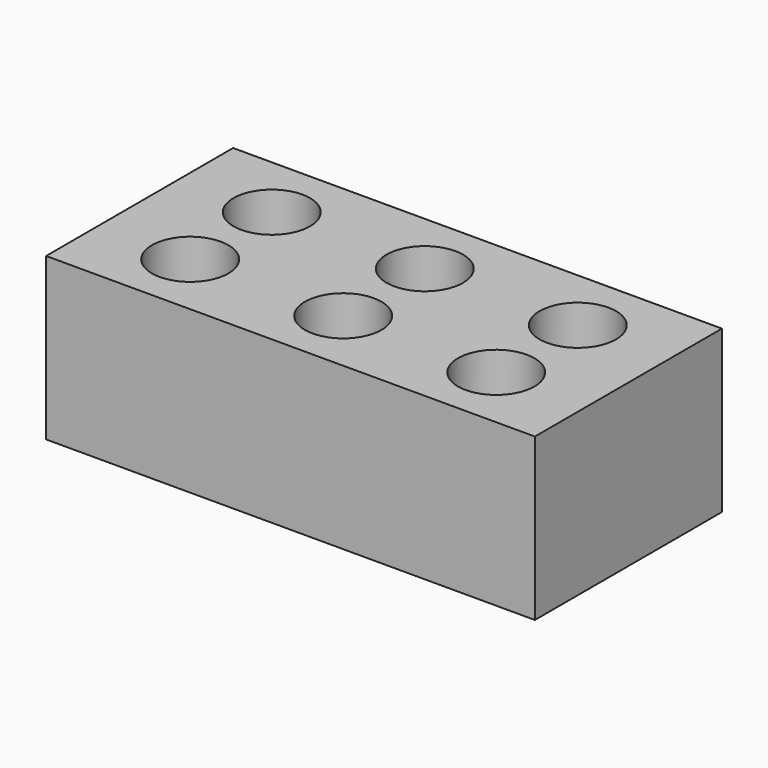
from build123d import *

# Parameters (mm, degrees)
CYLINDER001_R     = 18
CYLINDER001_DEPTH = 80
CYLINDER002_R     = 18
CYLINDER002_DEPTH = 80
CYLINDER003_R     = 18
CYLINDER003_DEPTH = 80
CYLINDER004_R     = 18
CYLINDER004_DEPTH = 80
CYLINDER005_R     = 18
CYLINDER005_DEPTH = 80
CYLINDER_R        = 18
CYLINDER_DEPTH    = 80
BOX_W             = 230
BOX_H             = 110
BOX_DEPTH         = 76


with BuildPart() as forat001:
    # Cylinder001 → Cylinder001 (new body)
    with BuildSketch(Plane(origin=(43, 79, -2), x_dir=(1, 0, 0), z_dir=(0, 0, 1))):
        Circle(CYLINDER001_R)
    extrude(amount=CYLINDER001_DEPTH)


with BuildPart() as forat002:
    # Cylinder002 → Cylinder002 (new body)
    with BuildSketch(Plane(origin=(115, 31, -2), x_dir=(1, 0, 0), z_dir=(0, 0, 1))):
        Circle(CYLINDER002_R)
    extrude(amount=CYLINDER002_DEPTH)


with BuildPart() as forat003:
    # Cylinder003 → Cylinder003 (new body)
    with BuildSketch(Plane(origin=(187, 31, -2), x_dir=(1, 0, 0), z_dir=(0, 0, 1))):
        Circle(CYLINDER003_R)
    extrude(amount=CYLINDER003_DEPTH)


with BuildPart() as forat004:
    # Cylinder004 → Cylinder004 (new body)
    with BuildSketch(Plane(origin=(115, 79, -2), x_dir=(1, 0, 0), z_dir=(0, 0, 1))):
        Circle(CYLINDER004_R)
    extrude(amount=CYLINDER004_DEPTH)


with BuildPart() as forat005:
    # Cylinder005 → Cylinder005 (new body)
    with BuildSketch(Plane(origin=(187, 79, -2), x_dir=(1, 0, 0), z_dir=(0, 0, 1))):
        Circle(CYLINDER005_R)
    extrude(amount=CYLINDER005_DEPTH)


with BuildPart() as obj1:
    # Cylinder → Cylinder (new body)
    with BuildSketch(Plane(origin=(43, 31, -2), x_dir=(1, 0, 0), z_dir=(0, 0, 1))):
        Circle(CYLINDER_R)
    extrude(amount=CYLINDER_DEPTH)

    # Fusion: union forat001, forat002, forat003, forat004, forat005
    add(forat001.part)
    add(forat002.part)
    add(forat003.part)
    add(forat004.part)
    add(forat005.part)


with BuildPart() as obj2:
    # Box → Box (new body)
    with BuildSketch(Plane.XY):
        with Locations((115, 55)):
            Rectangle(BOX_W, BOX_H)
    extrude(amount=BOX_DEPTH)

    # Cut: cut obj1
    add(obj1.part, mode=Mode.SUBTRACT)


solid = obj2.part
